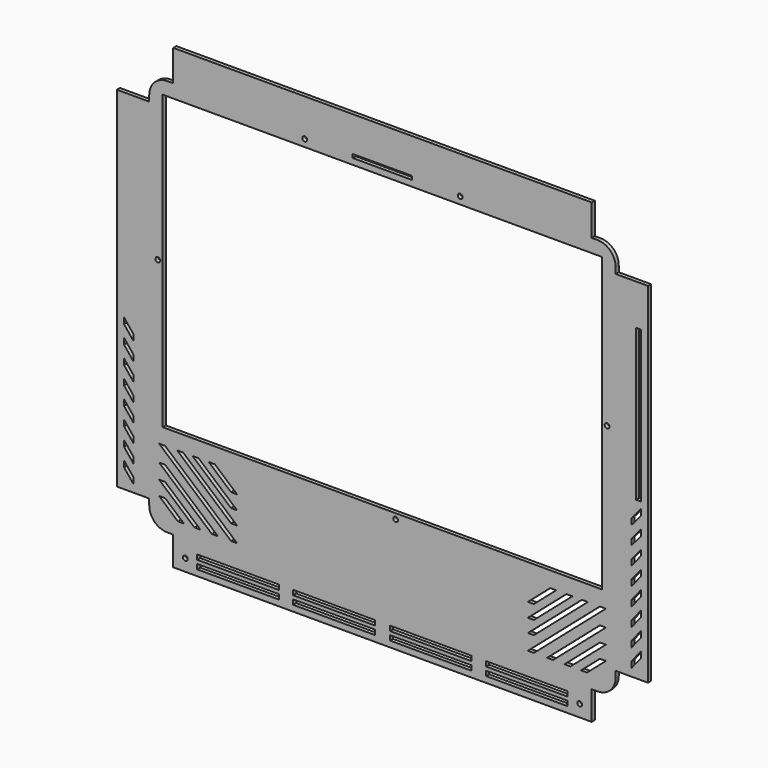
from build123d import *

# Parameters (mm, degrees)
F0_W     = 442.976
F0_H     = 33.02
F0_W_2   = 34.29
F0_H_2   = 369.824
F0_H_3   = 30.48
F1_DEPTH = 4.064
F2_W     = 465.328
F2_H     = 309.88
F3_DEPTH = 4.064
F4_R     = 2.54
F4_W     = 62.992
F4_H     = 3.81
F5_DEPTH = 25.4
F7_DEPTH = 25.4
F8_W     = 5.08
F8_H     = 160.234163
F8_W_2   = 86.36
F8_H_2   = 5.08
F8_R     = 2.5
F9_DEPTH = 25.4


with BuildPart() as f1:
    # F0 (on Front) → F1 (new body)
    with BuildSketch(Plane.XZ):
        with BuildLine():
            ThreePointArc((131.524737, 203.821709), (125.945122, 217.292093), (112.474737, 222.871709))
            Line((112.474737, 222.871709), (106.124737, 222.871709))
            Line((106.124737, 222.871709), (-336.851263, 222.871709))
            Line((-336.851263, 222.871709), (-343.201263, 222.871709))
            ThreePointArc((-343.201263, 222.871709), (-356.671647, 217.292093), (-362.251263, 203.821709))
            Line((-362.251263, 203.821709), (-362.251263, 197.471709))
            Line((-362.251263, 197.471709), (-362.251263, -172.352291))
            Line((-362.251263, -172.352291), (-362.251263, -178.702291))
            ThreePointArc((-362.251263, -178.702291), (-356.671647, -192.172675), (-343.201263, -197.752291))
            Line((-343.201263, -197.752291), (-336.851263, -197.752291))
            Line((-336.851263, -197.752291), (106.124737, -197.752291))
            Line((106.124737, -197.752291), (112.474737, -197.752291))
            ThreePointArc((112.474737, -197.752291), (125.945122, -192.172675), (131.524737, -178.702291))
            Line((131.524737, -178.702291), (131.524737, -172.352291))
            Line((131.524737, -172.352291), (131.524737, 197.471709))
            Line((131.524737, 197.471709), (131.524737, 203.821709))
        make_face()
        with Locations((-115.363263, 239.381709)):
            Rectangle(F0_W, F0_H)
        with Locations((148.669737, 12.559709)):
            Rectangle(F0_W_2, F0_H_2)
        with Locations((-379.396263, 12.559709)):
            Rectangle(F0_W_2, F0_H_2)
        with Locations((-115.363263, -212.992291)):
            Rectangle(F0_W, F0_H_3)
    extrude(amount=F1_DEPTH)

    # F2 (on Front) → F3 (cut)
    with BuildSketch(Plane.XZ):
        with Locations((-115.363263, 53.707709)):
            Rectangle(F2_W, F2_H)
    extrude(amount=F3_DEPTH, mode=Mode.SUBTRACT)

    # F4 (on Front) → F5 (cut)
    with BuildSketch(Plane.XZ):
        with Locations((-101.393263, -106.968797)):
            Circle(F4_R)
        with Locations((122.380737, 53.051203)):
            Circle(F4_R)
        with Locations((-353.107263, 53.051203)):
            Circle(F4_R)
        with Locations((-197.659263, 216.267709)):
            Circle(F4_R)
        with Locations((-33.067263, 216.267709)):
            Circle(F4_R)
        with Locations((-115.363263, 216.902709)):
            Rectangle(F4_W, F4_H)
    extrude(amount=F5_DEPTH, mode=Mode.SUBTRACT)

    # F6 (on Front) → F7 (cut)
    with BuildSketch(Plane.XZ):
        Polygon((-345.464181, -117.805743), (-351.814181, -117.805743), (-275.614181, -183.845743), (-269.264181, -183.845743), align=None)
        Polygon((-326.414181, -117.805743), (-332.764181, -117.805743), (-275.614181, -167.335743), (-269.264181, -167.335743), align=None)
        Polygon((-345.464181, -135.422744), (-351.814181, -135.422744), (-295.941489, -183.845743), (-289.591489, -183.845743), align=None)
        Polygon((-345.464181, -151.36744), (-351.814181, -151.36744), (-314.339216, -183.845743), (-307.989216, -183.845743), align=None)
        Polygon((-345.464181, -166.540616), (-351.814181, -166.540616), (-331.846726, -183.845743), (-325.496726, -183.845743), align=None)
        Polygon((-275.614181, -153.130999), (-269.264181, -153.130999), (-310.024092, -117.805743), (-316.374092, -117.805743), align=None)
        Polygon((-275.614181, -138.279289), (-269.264181, -138.279289), (-292.887503, -117.805743), (-299.237503, -117.805743), align=None)
        Polygon((44.933819, -167.335743), (102.083819, -117.805743), (95.733819, -117.805743), (38.583819, -167.335743), align=None)
        Polygon((44.933819, -183.845743), (121.133819, -117.805743), (114.783819, -117.805743), (38.583819, -183.845743), align=None)
        Polygon((44.933819, -153.130999), (85.69373, -117.805743), (79.34373, -117.805743), (38.583819, -153.130999), align=None)
        Polygon((62.207142, -117.805743), (38.583819, -138.279289), (44.933819, -138.279289), (68.557142, -117.805743), align=None)
        Polygon((83.658855, -183.845743), (121.133819, -151.36744), (114.783819, -151.36744), (77.308855, -183.845743), align=None)
        Polygon((114.783819, -135.422744), (58.911128, -183.845743), (65.261128, -183.845743), (121.133819, -135.422744), align=None)
        Polygon((114.783819, -166.540616), (94.816364, -183.845743), (101.166364, -183.845743), (121.133819, -166.540616), align=None)
    extrude(amount=F7_DEPTH, mode=Mode.SUBTRACT)

    # F8 (on Front) → F9 (cut)
    with BuildSketch(Plane.XZ):
        Polygon((158.194737, -19.210222), (158.194737, -12.860222), (148.034737, -24.918877), (148.034737, -31.26434), align=None)
        Polygon((158.194737, -38.255688), (158.194737, -31.910222), (148.034737, -43.96434), (148.034737, -50.309802), align=None)
        Polygon((158.194737, -50.955688), (148.034737, -63.009802), (148.034737, -69.364961), (158.194737, -56.664961), align=None)
        Polygon((158.194737, -69.364961), (148.034737, -82.064961), (148.034737, -88.414961), (158.194737, -75.714961), align=None)
        Polygon((158.194737, -88.414961), (148.034737, -101.114961), (148.034737, -107.464961), (158.194737, -94.764961), align=None)
        Polygon((158.194737, -107.464961), (148.034737, -120.164961), (148.034737, -126.514961), (158.194737, -113.814961), align=None)
        Polygon((158.194737, -126.514961), (148.034737, -139.214961), (148.034737, -145.564961), (158.194737, -132.864961), align=None)
        Polygon((158.194737, -145.564961), (148.034737, -158.264961), (148.034737, -164.614961), (158.194737, -151.914961), align=None)
        Polygon((-378.761263, -158.255291), (-388.921263, -145.555291), (-388.921263, -151.905291), (-378.761263, -164.605291), align=None)
        Polygon((-388.921263, -126.505291), (-388.921263, -132.855291), (-378.761263, -145.555291), (-378.761263, -139.205291), align=None)
        Polygon((-388.921263, -113.805291), (-378.761263, -126.505291), (-378.761263, -120.155291), (-388.921263, -107.455291), align=None)
        Polygon((-388.921263, -94.755291), (-378.761263, -107.455291), (-378.761263, -101.105291), (-388.921263, -88.405291), align=None)
        Polygon((-388.921263, -75.705291), (-378.761263, -88.405291), (-378.761263, -82.055291), (-388.921263, -69.355291), align=None)
        Polygon((-388.921263, -56.655291), (-378.761263, -69.355291), (-378.761263, -63.005291), (-388.921263, -50.305291), align=None)
        Polygon((-388.921263, -37.605291), (-378.761263, -50.305291), (-378.761263, -43.955291), (-388.921263, -31.255291), align=None)
        Polygon((-388.921263, -18.555291), (-378.761263, -31.255291), (-378.761263, -24.905291), (-388.921263, -12.205291), align=None)
        with Locations((155.654737, 74.248204)):
            Rectangle(F8_W, F8_H)
        with Locations((-268.271263, -219.342291)):
            Rectangle(F8_W_2, F8_H_2)
        with Locations((-268.271263, -210.452291)):
            Rectangle(F8_W_2, F8_H_2)
        with Locations((-166.671263, -210.452291)):
            Rectangle(F8_W_2, F8_H_2)
        with Locations((-166.671263, -219.342291)):
            Rectangle(F8_W_2, F8_H_2)
        with Locations((-64.055263, -210.452291)):
            Rectangle(F8_W_2, F8_H_2)
        with Locations((-64.055263, -219.342291)):
            Rectangle(F8_W_2, F8_H_2)
        with Locations((37.544737, -210.452291)):
            Rectangle(F8_W_2, F8_H_2)
        with Locations((37.544737, -219.342291)):
            Rectangle(F8_W_2, F8_H_2)
        with Locations((93.424737, -215.532291)):
            Circle(F8_R)
        with Locations((-324.151263, -215.532291)):
            Circle(F8_R)
    extrude(amount=F9_DEPTH, mode=Mode.SUBTRACT)


solid = f1.part
